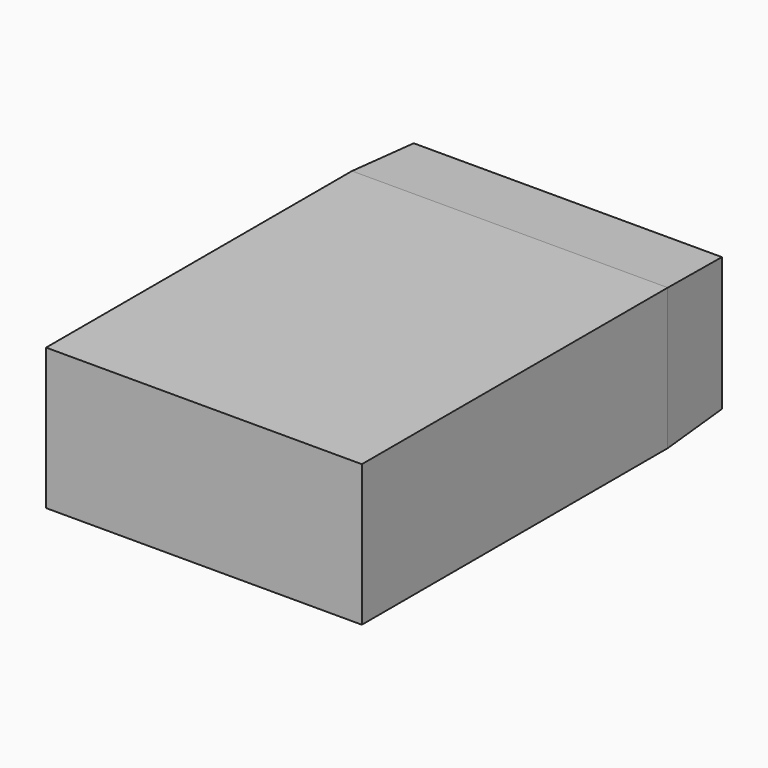
from build123d import *

# Parameters (mm, degrees)
F1_W     = 108.002141118
F1_H     = 46.8662679195
F2_DEPTH = 25.4
F2_TAPER = -3
F3_DEPTH = 134


with BuildPart() as f2:
    # F1 (on face) → F2 (new body)
    with BuildSketch(Plane.XZ):
        with Locations((-3.2949671149, 1.3480186462)):
            Rectangle(F1_W, F1_H)
    extrude(amount=F2_DEPTH, taper=F2_TAPER)

    # F3 (add): a face of the model
    f3_faces = [f2.faces().sort_by_distance(p)[0] for p in [
        (-3.2949671149, -25.4, 1.3480186462),
    ]]
    extrude(f3_faces, amount=F3_DEPTH)


solid = f2.part
